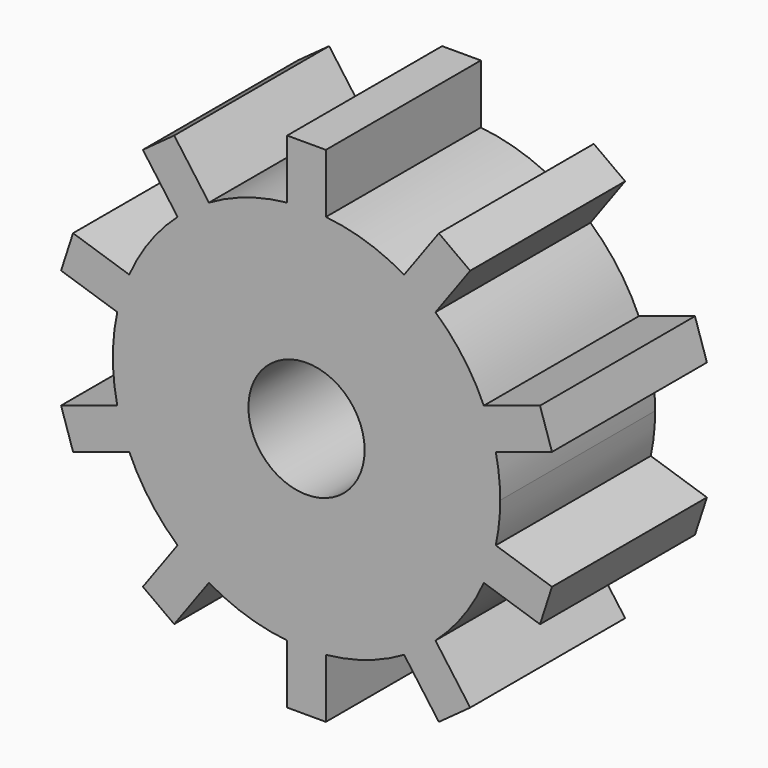
from build123d import *

# Parameters (mm, degrees)
F0_R     = 1.5
F1_DEPTH = 5


with BuildPart() as f1:
    # F0 (on Front) → F1 (new body)
    with BuildSketch(Plane.XZ):
        with BuildLine():
            ThreePointArc((4.885955, -1.061812), (4.971407, -0.533959), (5, 0))
            ThreePointArc((5, 0), (4.971407, 0.533959), (4.885955, 1.061812))
            ThreePointArc((4.885955, 1.061812), (4.755283, 1.545085), (4.576938, 2.012868))
            ThreePointArc((4.576938, 2.012868), (4.045085, 2.938926), (3.328703, 3.730916))
            ThreePointArc((3.328703, 3.730916), (2.938926, 4.045085), (2.519686, 4.318701))
            ThreePointArc((2.519686, 4.318701), (1.545085, 4.755283), (0.5, 4.974937))
            ThreePointArc((0.5, 4.974937), (0, 5), (-0.5, 4.974937))
            ThreePointArc((-0.5, 4.974937), (-1.545085, 4.755283), (-2.519686, 4.318701))
            ThreePointArc((-2.519686, 4.318701), (-2.938926, 4.045085), (-3.328703, 3.730916))
            ThreePointArc((-3.328703, 3.730916), (-4.045085, 2.938926), (-4.576938, 2.012868))
            ThreePointArc((-4.576938, 2.012868), (-4.755283, 1.545085), (-4.885955, 1.061812))
            ThreePointArc((-4.885955, 1.061812), (-5, 0), (-4.885955, -1.061812))
            ThreePointArc((-4.885955, -1.061812), (-4.755283, -1.545085), (-4.576938, -2.012868))
            ThreePointArc((-4.576938, -2.012868), (-4.045085, -2.938926), (-3.328703, -3.730916))
            ThreePointArc((-3.328703, -3.730916), (-2.938926, -4.045085), (-2.519686, -4.318701))
            ThreePointArc((-2.519686, -4.318701), (-1.545085, -4.755283), (-0.5, -4.974937))
            ThreePointArc((-0.5, -4.974937), (0, -5), (0.5, -4.974937))
            ThreePointArc((0.5, -4.974937), (1.545085, -4.755283), (2.519686, -4.318701))
            ThreePointArc((2.519686, -4.318701), (2.938926, -4.045085), (3.328703, -3.730916))
            ThreePointArc((3.328703, -3.730916), (4.045085, -2.938926), (4.576938, -2.012868))
            ThreePointArc((4.576938, -2.012868), (4.755283, -1.545085), (4.885955, -1.061812))
        make_face()
        Circle(F0_R, mode=Mode.SUBTRACT)
        with BuildLine():
            ThreePointArc((4.576938, 2.012868), (4.755283, 1.545085), (4.885955, 1.061812))
            Line((4.885955, 1.061812), (6.336376, 1.533082))
            Line((6.336376, 1.533082), (6.027359, 2.484139))
            Line((6.027359, 2.484139), (4.576938, 2.012868))
        make_face()
        with BuildLine():
            Line((6.336376, -1.533082), (4.885955, -1.061812))
            ThreePointArc((4.885955, -1.061812), (4.755283, -1.545085), (4.576938, -2.012868))
            Line((4.576938, -2.012868), (6.027359, -2.484139))
            Line((6.027359, -2.484139), (6.336376, -1.533082))
        make_face()
        with BuildLine():
            ThreePointArc((2.519686, 4.318701), (2.938926, 4.045085), (3.328703, 3.730916))
            Line((3.328703, 3.730916), (4.225113, 4.964718))
            Line((4.225113, 4.964718), (3.416096, 5.552503))
            Line((3.416096, 5.552503), (2.519686, 4.318701))
        make_face()
        with BuildLine():
            Line((4.225113, -4.964718), (3.328703, -3.730916))
            ThreePointArc((3.328703, -3.730916), (2.938926, -4.045085), (2.519686, -4.318701))
            Line((2.519686, -4.318701), (3.416096, -5.552503))
            Line((3.416096, -5.552503), (4.225113, -4.964718))
        make_face()
        with BuildLine():
            ThreePointArc((-0.5, 4.974937), (0, 5), (0.5, 4.974937))
            Line((0.5, 4.974937), (0.5, 6.5))
            Line((0.5, 6.5), (-0.5, 6.5))
            Line((-0.5, 6.5), (-0.5, 4.974937))
        make_face()
        with BuildLine():
            Line((0.5, -6.5), (0.5, -4.974937))
            ThreePointArc((0.5, -4.974937), (0, -5), (-0.5, -4.974937))
            Line((-0.5, -4.974937), (-0.5, -6.5))
            Line((-0.5, -6.5), (0.5, -6.5))
        make_face()
        with BuildLine():
            ThreePointArc((-3.328703, 3.730916), (-2.938926, 4.045085), (-2.519686, 4.318701))
            Line((-2.519686, 4.318701), (-3.416096, 5.552503))
            Line((-3.416096, 5.552503), (-4.225113, 4.964718))
            Line((-4.225113, 4.964718), (-3.328703, 3.730916))
        make_face()
        with BuildLine():
            Line((-3.416096, -5.552503), (-2.519686, -4.318701))
            ThreePointArc((-2.519686, -4.318701), (-2.938926, -4.045085), (-3.328703, -3.730916))
            Line((-3.328703, -3.730916), (-4.225113, -4.964718))
            Line((-4.225113, -4.964718), (-3.416096, -5.552503))
        make_face()
        with BuildLine():
            ThreePointArc((-4.885955, 1.061812), (-4.755283, 1.545085), (-4.576938, 2.012868))
            Line((-4.576938, 2.012868), (-6.027359, 2.484139))
            Line((-6.027359, 2.484139), (-6.336376, 1.533082))
            Line((-6.336376, 1.533082), (-4.885955, 1.061812))
        make_face()
        with BuildLine():
            Line((-6.027359, -2.484139), (-4.576938, -2.012868))
            ThreePointArc((-4.576938, -2.012868), (-4.755283, -1.545085), (-4.885955, -1.061812))
            Line((-4.885955, -1.061812), (-6.336376, -1.533082))
            Line((-6.336376, -1.533082), (-6.027359, -2.484139))
        make_face()
    extrude(amount=F1_DEPTH)


solid = f1.part
